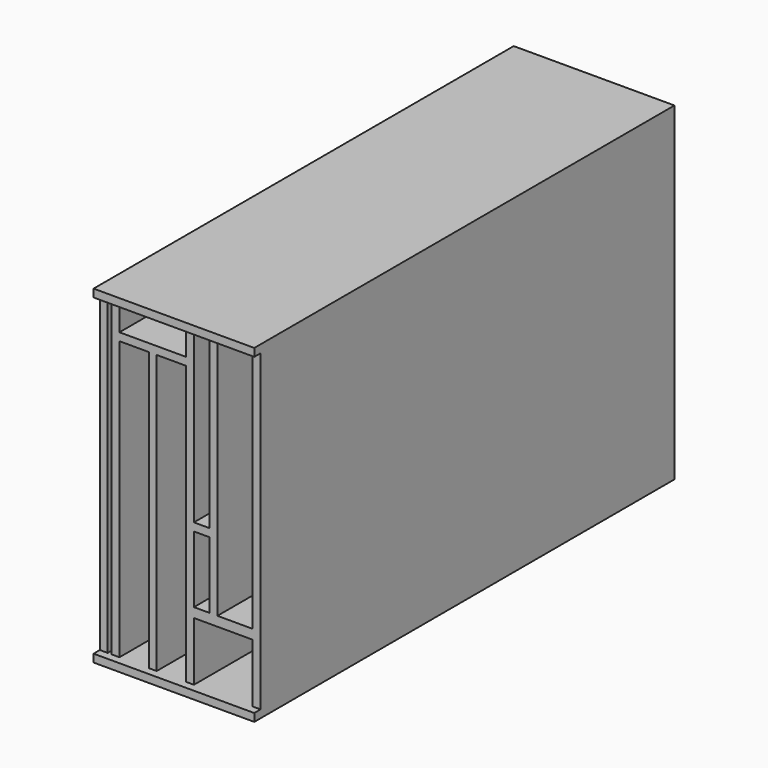
from build123d import *

# Parameters (mm, degrees)
F0_W     = 205
F0_H     = 420
F0_W_2   = 37.5
F0_H_2   = 355
F0_W_3   = 75
F0_H_3   = 75
F0_W_4   = 20
F0_H_4   = 85
F0_W_5   = 5
F0_H_5   = 400
F0_W_6   = 85
F0_H_6   = 35
F0_H_7   = 217.581037
F0_W_7   = 45
F0_H_8   = 312.792163
F1_DEPTH = 650
F2_W     = 10
F2_H     = 420
F3_DEPTH = 205
F4_W     = 205
F4_H     = 10
F5_DEPTH = 10


with BuildPart() as f1:
    # F0 (on Front) → F1 (new body)
    with BuildSketch(Plane.XZ):
        with Locations((-316.01329, 210)):
            Rectangle(F0_W, F0_H)
        with Locations((-374.76329, 187.5)):
            Rectangle(F0_W_2, F0_H_2, mode=Mode.SUBTRACT)
        with Locations((-327.26329, 187.5)):
            Rectangle(F0_W_2, F0_H_2, mode=Mode.SUBTRACT)
        with Locations((-261.01329, 47.5)):
            Rectangle(F0_W_3, F0_H_3, mode=Mode.SUBTRACT)
        with Locations((-288.51329, 139.707837)):
            Rectangle(F0_W_4, F0_H_4, mode=Mode.SUBTRACT)
        with Locations((-406.01329, 210)):
            Rectangle(F0_W_5, F0_H_5, mode=Mode.SUBTRACT)
        with Locations((-351.01329, 392.5)):
            Rectangle(F0_W_6, F0_H_6, mode=Mode.SUBTRACT)
        with Locations((-288.51329, 301.209481)):
            Rectangle(F0_W_4, F0_H_7, mode=Mode.SUBTRACT)
        with Locations((-246.01329, 253.603918)):
            Rectangle(F0_W_7, F0_H_8, mode=Mode.SUBTRACT)
    extrude(amount=-F1_DEPTH)

    # F2 (on face) → F3 (join, through all)
    with BuildSketch(Plane.YZ.offset(-213.51329)):
        with Locations((655, 210)):
            Rectangle(F2_W, F2_H)
    extrude(amount=-F3_DEPTH)

    # F4 (on face) → F5 (join)
    with BuildSketch(Plane.XZ):
        with Locations((-316.01329, 415)):
            Rectangle(F4_W, F4_H)
        with Locations((-316.01329, 5)):
            Rectangle(F4_W, F4_H)
    extrude(amount=F5_DEPTH)


solid = f1.part
